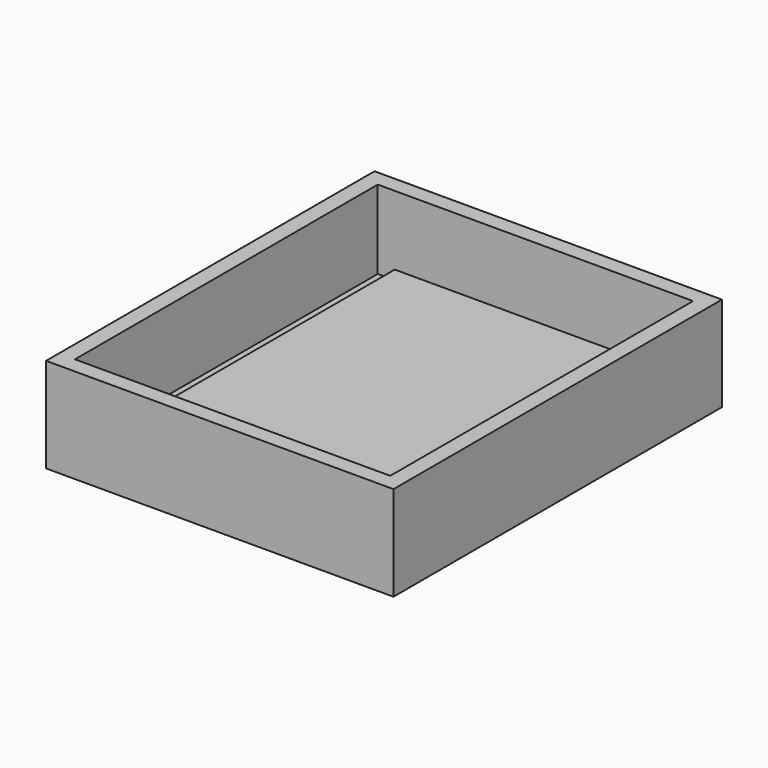
from build123d import *

# Parameters (mm, degrees)
F0_W     = 55
F0_H     = 65
F1_DEPTH = 15
F2_T     = -2.54
F3_W     = 35
F3_H     = 48
F4_DEPTH = 8


with BuildPart() as f1:
    # F0 (on Top) → F1 (new body)
    with BuildSketch(Plane.XY):
        Rectangle(F0_W, F0_H)
    extrude(amount=F1_DEPTH)

    # F2
    f2_openings = [f1.faces().sort_by_distance(p)[0] for p in [
        (0, 0, 15),
    ]]
    offset(amount=F2_T, openings=f2_openings)


with BuildPart() as f4:
    # F3 (on Top) → F4 (new body)
    with BuildSketch(Plane.XY):
        Rectangle(F3_W, F3_H)
    extrude(amount=F4_DEPTH)


solid = Compound([f1.part, f4.part])
